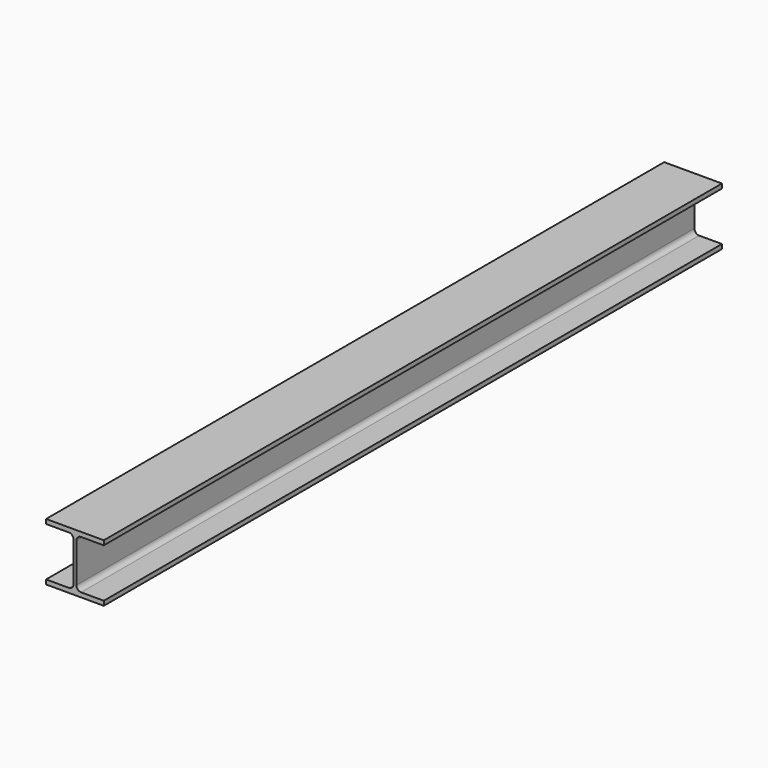
from build123d import *

# Parameters (mm, degrees)
F1_DEPTH = 2409


with BuildPart() as f1:
    # F0 (on Front) → F1 (new body)
    with BuildSketch(Plane.XZ):
        with BuildLine():
            Line((-90, -90), (90, -90))
            Line((90, -90), (90, -76))
            Line((90, -76), (19.25, -76))
            ThreePointArc((19.25, -76), (8.643398, -71.606602), (4.25, -61))
            Line((4.25, -61), (4.25, 61))
            ThreePointArc((4.25, 61), (8.643398, 71.606602), (19.25, 76))
            Line((19.25, 76), (90, 76))
            Line((90, 76), (90, 90))
            Line((90, 90), (-90, 90))
            Line((-90, 90), (-90, 76))
            Line((-90, 76), (-19.25, 76))
            ThreePointArc((-19.25, 76), (-8.643398, 71.606602), (-4.25, 61))
            Line((-4.25, 61), (-4.25, -61))
            ThreePointArc((-4.25, -61), (-8.643398, -71.606602), (-19.25, -76))
            Line((-19.25, -76), (-90, -76))
            Line((-90, -76), (-90, -90))
        make_face()
    extrude(amount=F1_DEPTH)


solid = f1.part
